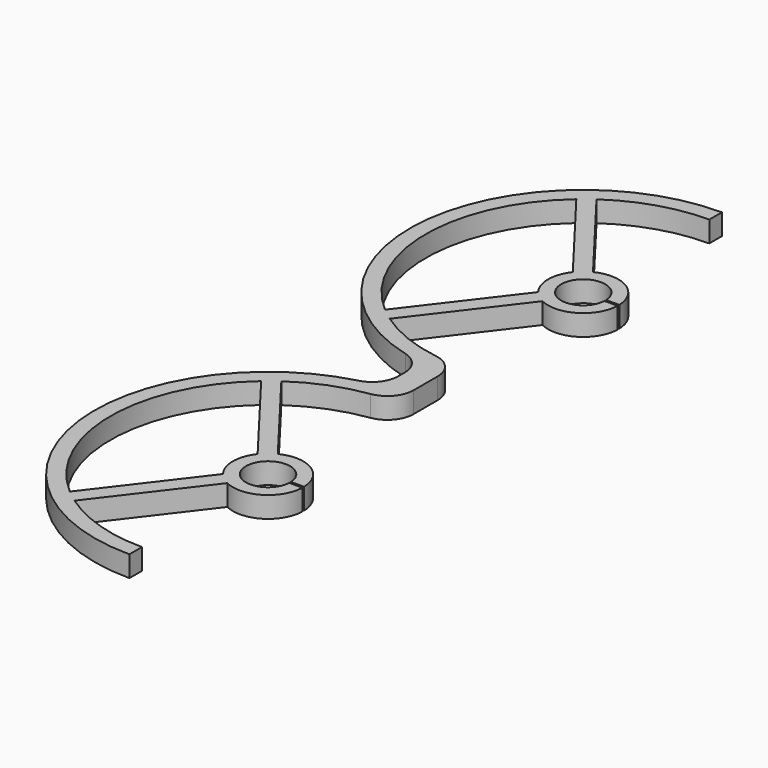
from build123d import *

# Parameters (mm, degrees)
F1_DEPTH = 4
F3_R     = 5


with BuildPart() as f1:
    # F0 (on Top) → F1 (new body)
    with BuildSketch(Plane.XY):
        with BuildLine():
            ThreePointArc((-5.2846358413, 41.6185706289), (-4.227869293, 42.6976072612), (-2.9562644856, 43.5125286104))
            Line((-2.9562644856, 43.5125286104), (-17.160939287, 62.1069535454))
            ThreePointArc((-17.160939287, 62.1069535454), (-18.3698486288, 61.2181083005), (-19.5328025761, 60.2699280527))
            Line((-19.5328025761, 60.2699280527), (-5.2846358413, 41.6185706289))
        make_face()
        with BuildLine():
            ThreePointArc((-19.5328025761, 60.2699280527), (-18.3698486288, 61.2181083005), (-17.160939287, 62.1069535454))
            ThreePointArc((-17.160939287, 62.1069535454), (-8.9942035122, 66.1199983086), (0, 67.5))
            Line((0, 67.5), (0, 70.5))
            ThreePointArc((0, 70.5), (-32.9194358863, 39.8045044859), (-4.5977568287, 4.8218630864))
            Line((-4.5977568287, 4.8218630864), (0, 4.8218630864))
            Line((0, 4.8218630864), (0, 7.5))
            ThreePointArc((0, 7.5), (-8.9942035122, 8.8800016914), (-17.160939287, 12.8930464546))
            ThreePointArc((-17.160939287, 12.8930464546), (-18.3698486288, 13.7818916995), (-19.5328025761, 14.7300719473))
            ThreePointArc((-19.5328025761, 14.7300719473), (-30, 37.5), (-19.5328025761, 60.2699280527))
        make_face()
        with BuildLine():
            Line((-17.160939287, 12.8930464546), (-2.9562644856, 31.4874713896))
            ThreePointArc((-2.9562644856, 31.4874713896), (-4.227869293, 32.3023927388), (-5.2846358413, 33.3814293711))
            Line((-5.2846358413, 33.3814293711), (-19.5328025761, 14.7300719473))
            ThreePointArc((-19.5328025761, 14.7300719473), (-18.3698486288, 13.7818916995), (-17.160939287, 12.8930464546))
        make_face()
        with BuildLine():
            ThreePointArc((0, 4.5), (-2.3045044859, 4.5805641137), (-4.5977568287, 4.8218630864))
            Line((-4.5977568287, 4.8218630864), (-4.5977568287, 0))
            Line((-4.5977568287, 0), (0, 0))
            Line((0, 0), (0, 4.5))
        make_face()
        with BuildLine():
            Line((0, 4.5), (0, 4.8218630864))
            Line((0, 4.8218630864), (-4.5977568287, 4.8218630864))
            ThreePointArc((-4.5977568287, 4.8218630864), (-2.3045044859, 4.5805641137), (0, 4.5))
        make_face()
        with BuildLine():
            ThreePointArc((4.1952353927, 37.3), (-4.2, 37.5), (4.1952353927, 37.7))
            Line((4.1952353927, 37.7), (6.6970142601, 37.7))
            ThreePointArc((6.6970142601, 37.7), (3.4561068315, 43.2398018754), (-2.9562644856, 43.5125286104))
            ThreePointArc((-2.9562644856, 43.5125286104), (-4.227869293, 42.6976072612), (-5.2846358413, 41.6185706289))
            ThreePointArc((-5.2846358413, 41.6185706289), (-6.7, 37.5), (-5.2846358413, 33.3814293711))
            ThreePointArc((-5.2846358413, 33.3814293711), (-4.227869293, 32.3023927388), (-2.9562644856, 31.4874713896))
            ThreePointArc((-2.9562644856, 31.4874713896), (3.4561068315, 31.7601981246), (6.6970142601, 37.3))
            Line((6.6970142601, 37.3), (4.1952353927, 37.3))
        make_face()
    extrude(amount=F1_DEPTH)

    # F2: F1 across plane


with BuildPart() as f1_1:
    add(f1.part)
    add(f1.part.mirror(Plane.XZ))

    # F3
    f3_edges = [f1_1.edges().sort_by_distance(p)[0] for p in [
        (0, 7.5, 2),
        (-4.597757, -4.821863, 2),
        (-4.597757, 4.821863, 2),
        (0, -7.5, 2),
    ]]
    fillet(f3_edges, radius=F3_R)


solid = f1_1.part
